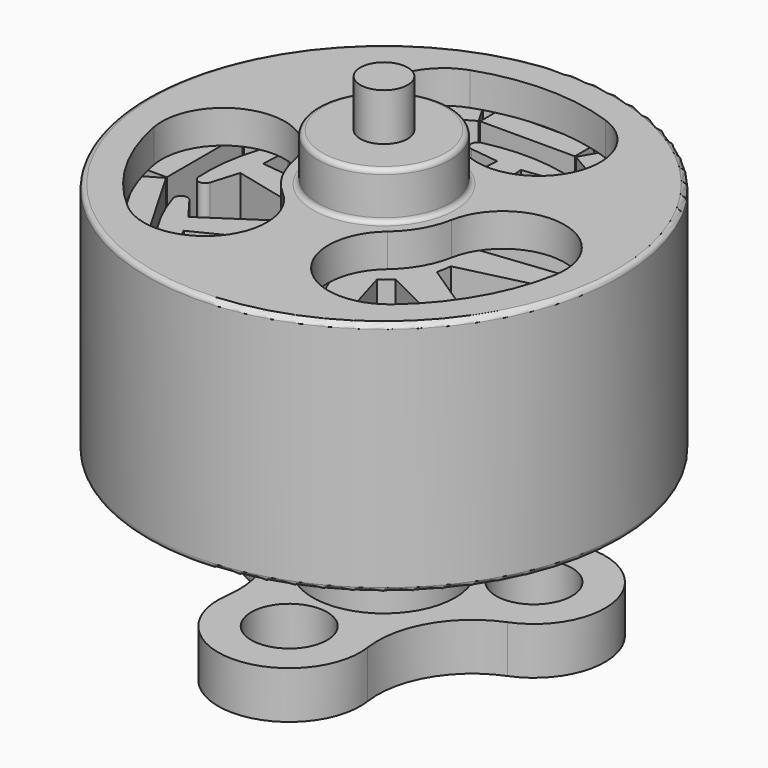
from build123d import *

# Parameters (mm, degrees)
SKETCH_R              = 5
PAD_DEPTH             = 5
POCKET_DEPTH          = 35.001
POLARPATTERN_COUNT    = 3
SKETCH002_R           = 4.4
POCKET001_DEPTH       = 4.3
SKETCH003_R           = 1.4
PAD001_DEPTH          = 1
SKETCH004_W           = 2
SKETCH004_H           = 0.5
PAD002_DEPTH          = 4.1
POLARPATTERN001_COUNT = 12
SKETCH007_R           = 0.5
PAD005_DEPTH          = 7
PAD005_DEPTH_BACK     = 3.2
FILLET_R              = 0.1
PAD003_DEPTH          = 4
POLARPATTERN002_COUNT = 9
SKETCH006_R           = 1.5
SKETCH006_R_2         = 1
PAD004_DEPTH          = 4
PAD004_DEPTH_BACK     = 3.2
SKETCH008_R           = 0.8
SKETCH008_R_2         = 1
PAD006_DEPTH          = 1


with BuildPart() as body:
    # Sketch → Pad (new body)
    with BuildSketch(Plane.XY):
        Circle(SKETCH_R)
    extrude(amount=PAD_DEPTH)

    # Sketch001 → Pocket (cut, through all)
    with BuildSketch(Plane.XY):
        with BuildLine():
            ThreePointArc((0.566671, 1.602774), (-1e-06, 1.7), (-0.566673, 1.602773))
            ThreePointArc((-1.433333, 4.054079), (-2.225653, 2.395097), (-0.566673, 1.602773))
            ThreePointArc((1.433336, 4.054078), (1e-06, 4.3), (-1.433333, 4.054079))
            ThreePointArc((0.566671, 1.602774), (2.225652, 2.395095), (1.433336, 4.054078))
        make_face()
    pocket = extrude(amount=POCKET_DEPTH, mode=Mode.SUBTRACT)

    # PolarPattern: Pocket ×3 about axis
    polarpattern_axis = Axis((0, 0, 0), (0, 0, 1))
    for i in range(1, POLARPATTERN_COUNT):
        add(pocket.rotate(polarpattern_axis, i * 360 / POLARPATTERN_COUNT), mode=Mode.SUBTRACT)

    # Sketch002 (on Face2 of PolarPattern) → Pocket001 (cut)
    with BuildSketch(Plane(origin=(0, 0, 0), x_dir=(1, 0, 0), z_dir=(0, 0, -1))):
        Circle(SKETCH002_R)
    extrude(amount=-POCKET001_DEPTH, mode=Mode.SUBTRACT)

    # Sketch003 (on Face3 of Pocket001) → Pad001 (join)
    with BuildSketch(Plane.XY.offset(5)):
        Circle(SKETCH003_R)
    extrude(amount=PAD001_DEPTH)

    # Sketch004 (on Face18 of Pad001) → Pad002 (join)
    with BuildSketch(Plane(origin=(0, 0, 4.3), x_dir=(1, 0, 0), z_dir=(0, 0, -1))):
        with Locations((0, 4.034857)):
            Rectangle(SKETCH004_W, SKETCH004_H)
    pad002 = extrude(amount=PAD002_DEPTH)

    # PolarPattern001: Pad002 ×12 about axis
    polarpattern001_axis = Axis((0, 0, 4.3), (0, 0, -1))
    for i in range(1, POLARPATTERN001_COUNT):
        add(pad002.rotate(polarpattern001_axis, i * 360 / POLARPATTERN001_COUNT))

    # Sketch007 → Pad005 (join, two sides)
    with BuildSketch(Plane.XY) as pad005_sk:
        Circle(SKETCH007_R)
    extrude(amount=PAD005_DEPTH)
    extrude(pad005_sk.sketch, amount=-PAD005_DEPTH_BACK)

    # Fillet
    fillet_edges = [body.edges().sort_by_distance(p)[0] for p in [
        (-5, 0, 5),
        (-1.4, 0, 6),
        (-1.4, 0, 5),
        (-5, 0, 0),
    ]]
    fillet(fillet_edges, radius=FILLET_R)


with BuildPart() as body001:
    # Sketch005 → Pad003 (new body)
    with BuildSketch(Plane.XY):
        with BuildLine():
            ThreePointArc((0.865251, 3.648814), (0, 3.75), (-0.865251, 3.648814))
            ThreePointArc((-0.865251, 3.648814), (-0.972733, 3.504846), (-0.850002, 3.373634))
            Line((-0.850002, 3.373634), (-0.25, 3.3))
            Line((-0.25, 3.3), (-0.4, 0.916515))
            ThreePointArc((0.4, 0.916515), (0, 1), (-0.4, 0.916515))
            Line((0.25, 3.3), (0.4, 0.916515))
            Line((0.849998, 3.373635), (0.25, 3.3))
            ThreePointArc((0.849998, 3.373635), (0.97273, 3.504844), (0.865251, 3.648814))
        make_face()
    pad003 = extrude(amount=PAD003_DEPTH)

    # PolarPattern002: Pad003 ×9 about axis
    polarpattern002_axis = Axis((0, 0, 0), (0, 0, 1))
    for i in range(1, POLARPATTERN002_COUNT):
        add(pad003.rotate(polarpattern002_axis, i * 360 / POLARPATTERN002_COUNT))

    # Sketch006 → Pad004 (join, two sides)
    with BuildSketch(Plane.XY) as pad004_sk:
        Circle(SKETCH006_R)
        Circle(SKETCH006_R_2, mode=Mode.SUBTRACT)
    extrude(amount=PAD004_DEPTH)
    extrude(pad004_sk.sketch, amount=-PAD004_DEPTH_BACK)

    # Sketch008 (on Face12 of Pad004) → Pad006 (join)
    with BuildSketch(Plane(origin=(0, 0, -3.2), x_dir=(1, 0, 0), z_dir=(0, 0, -1))):
        with BuildLine():
            ThreePointArc((1.484616, 2.285724), (-4e-06, 4), (-1.484615, 2.285717))
            ThreePointArc((-2.721792, 0.142858), (-1.73205, 1.000002), (-1.484615, 2.285717))
            ThreePointArc((-2.721792, 0.142858), (-3.4641, -2.000004), (-1.237171, -2.428565))
            ThreePointArc((1.237171, -2.428565), (0, -2), (-1.237171, -2.428565))
            ThreePointArc((1.237171, -2.428565), (3.464097, -2.000007), (2.7218, 0.142855))
            ThreePointArc((1.484616, 2.285724), (1.73205, 1.000001), (2.7218, 0.142855))
        make_face()
        with Locations((0, 2.5)):
            Circle(SKETCH008_R, mode=Mode.SUBTRACT)
        with Locations((2.165064, -1.25)):
            Circle(SKETCH008_R, mode=Mode.SUBTRACT)
        with Locations((-2.165064, -1.25)):
            Circle(SKETCH008_R, mode=Mode.SUBTRACT)
        Circle(SKETCH008_R_2, mode=Mode.SUBTRACT)
    extrude(amount=-PAD006_DEPTH)


solid = Compound([body.part, body001.part])
